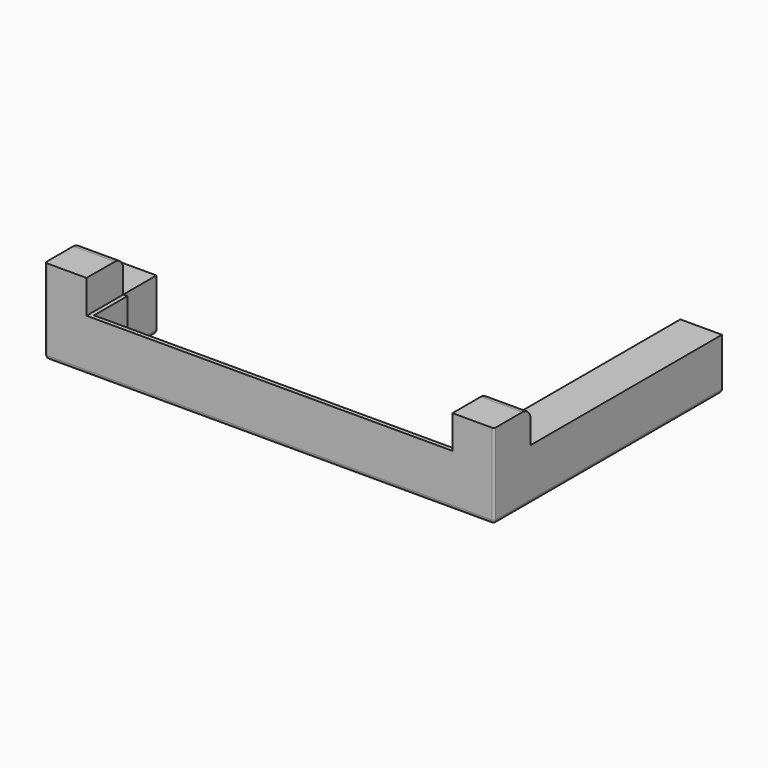
from build123d import *

# Parameters (mm, degrees)
PAD004_DEPTH    = 25
SKETCH007_W     = 20
SKETCH007_H     = 22
PAD005_DEPTH    = 16
FILLET003_R     = 2
SKETCH010_W     = 172
SKETCH010_H     = 20
POCKET003_DEPTH = 16
FILLET007_R     = 15
FILLET008_R     = 5
FILLET009_R     = 1


with BuildPart() as part:
    # Sketch006 → Pad004 (new body)
    with BuildSketch(Plane.XY):
        Polygon((-108, 42), (-88, 42), (-88, 22), (88, 22), (88, 137), (108, 137), (108, 0), (-108, 0), align=None)
    extrude(amount=PAD004_DEPTH)

    # Sketch007 (on DatumPlane) → Pad005 (join)
    with BuildSketch(Plane.XY.offset(25)):
        with Locations((-98, 11)):
            Rectangle(SKETCH007_W, SKETCH007_H)
        with Locations((98, 11)):
            Rectangle(SKETCH007_W, SKETCH007_H)
    extrude(amount=PAD005_DEPTH)

    # Fillet003
    fillet003_edges = [part.edges().sort_by_distance(p)[0] for p in [
        (-98, 42, 0),
        (-88, 32, 0),
        (0, 22, 0),
        (88, 79.5, 0),
        (98, 137, 0),
        (108, 68.5, 0),
        (0, 0, 0),
        (-108, 21, 0),
    ]]
    fillet(fillet003_edges, radius=FILLET003_R)

    # Sketch010 (on DatumPlane) → Pocket003 (cut)
    with BuildSketch(Plane.XY.offset(25)):
        with Locations((0, 12)):
            Rectangle(SKETCH010_W, SKETCH010_H)
    extrude(amount=-POCKET003_DEPTH, mode=Mode.SUBTRACT)

    # Fillet007
    fillet007_edges = [part.edges().sort_by_distance(p)[0] for p in [
        (0, 2, 9),
    ]]
    fillet(fillet007_edges, radius=FILLET007_R)

    # Fillet008
    fillet008_edges = [part.edges().sort_by_distance(p)[0] for p in [
        (-98, 22, 41),
        (98, 22, 41),
    ]]
    fillet(fillet008_edges, radius=FILLET008_R)

    # Fillet009
    fillet009_edges = [part.edges().sort_by_distance(p)[0] for p in [
        (108, 0, 33),
        (108, 0, 13.5),
        (-108, 0, 33),
        (-108, 0, 13.5),
    ]]
    fillet(fillet009_edges, radius=FILLET009_R)


solid = part.part
